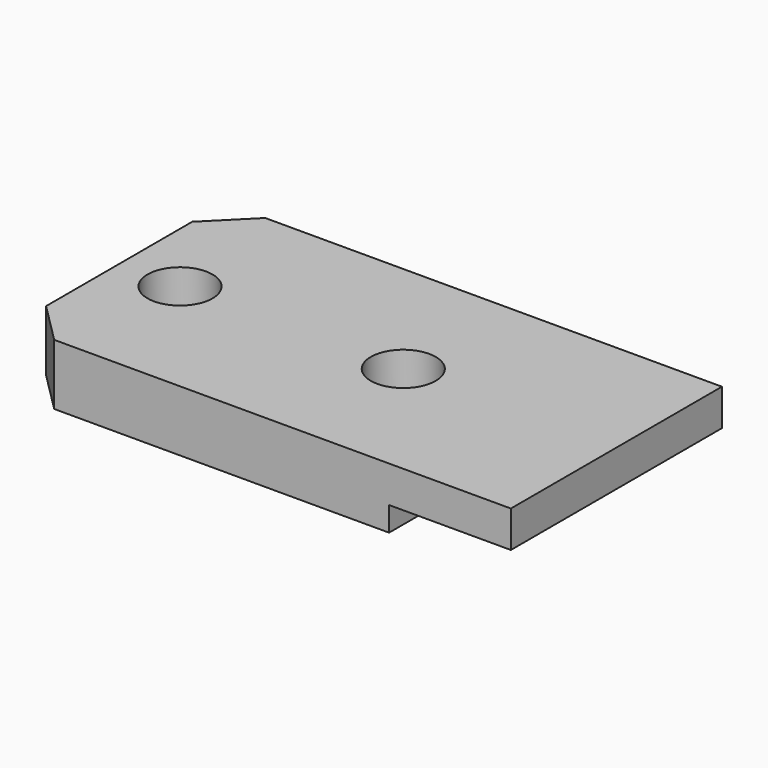
from build123d import *

# Parameters (mm, degrees)
CYLINDER004_R     = 1.6
CYLINDER004_DEPTH = 10
BOX017_W          = 6
BOX017_H          = 13
BOX017_DEPTH      = 1.2
CYLINDER003_R     = 1.6
CYLINDER003_DEPTH = 10
BOX016_W          = 24.5
BOX016_H          = 13
BOX016_DEPTH      = 3
CHAMFER001_SIZE   = 2


with BuildPart() as cylinder004:
    # Cylinder004 → Cylinder004 (new body)
    with BuildSketch(Plane(origin=(-19, -24.5, 0), x_dir=(1, 0, 0), z_dir=(0, 0, 1))):
        Circle(CYLINDER004_R)
    extrude(amount=CYLINDER004_DEPTH)


with BuildPart() as cube017:
    # Box017 → Box017 (new body)
    with BuildSketch(Plane(origin=(-14.5, -31, 0), x_dir=(1, 0, 0), z_dir=(0, 0, 1))):
        with Locations((3, 6.5)):
            Rectangle(BOX017_W, BOX017_H)
    extrude(amount=BOX017_DEPTH)


with BuildPart() as fusion001002:
    # Cylinder003 → Cylinder003 (new body)
    with BuildSketch(Plane(origin=(-30, -24.5, 0), x_dir=(1, 0, 0), z_dir=(0, 0, 1))):
        Circle(CYLINDER003_R)
    extrude(amount=CYLINDER003_DEPTH)

    # Fusion001002: union Cylinder004, Cube017
    add(cylinder004.part)
    add(cube017.part)


with BuildPart() as chamfer001:
    # Box016 → Box016 (new body)
    with BuildSketch(Plane(origin=(-33, -31, 0), x_dir=(1, 0, 0), z_dir=(0, 0, 1))):
        with Locations((12.25, 6.5)):
            Rectangle(BOX016_W, BOX016_H)
    extrude(amount=BOX016_DEPTH)

    # Cut008: cut Fusion001002
    add(fusion001002.part, mode=Mode.SUBTRACT)

    # Chamfer001
    chamfer001_edges = [chamfer001.edges().sort_by_distance(p)[0] for p in [
        (-33, -31, 1.5),
        (-33, -18, 1.5),
    ]]
    chamfer(chamfer001_edges, length=CHAMFER001_SIZE)


solid = chamfer001.part
